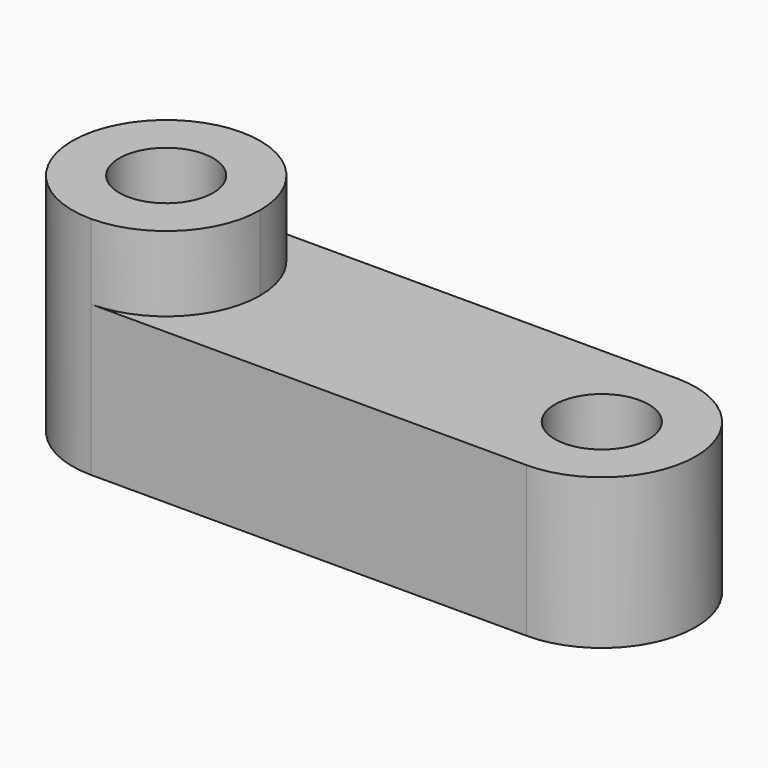
from build123d import *

# Parameters (mm, degrees)
F0_R     = 15.875
F1_DEPTH = 50.8
F2_DEPTH = 76.2


with BuildPart() as f1:
    # F0 (on Top) → F1 (new body)
    with BuildSketch(Plane.XY):
        with BuildLine():
            Line((-11.237637, 36.40228), (-84.859044, 36.40228))
            ThreePointArc((-84.859044, 36.40228), (-62.408403, 27.10292), (-53.109044, 4.65228))
            ThreePointArc((-53.109044, 4.65228), (-62.408403, -17.79836), (-84.859044, -27.09772))
            Line((-84.859044, -27.09772), (-11.237637, -27.09772))
            Line((-11.237637, -27.09772), (62.38377, -27.09772))
            ThreePointArc((62.38377, -27.09772), (94.13377, 4.65228), (62.38377, 36.40228))
            Line((62.38377, 36.40228), (-11.237637, 36.40228))
        make_face()
        with Locations((62.38377, 4.65228)):
            Circle(F0_R, mode=Mode.SUBTRACT)
    extrude(amount=F1_DEPTH)

    # F0 (on Top) → F2 (join)
    with BuildSketch(Plane.XY):
        with BuildLine():
            ThreePointArc((-53.109044, 4.65228), (-62.408403, 27.10292), (-84.859044, 36.40228))
            ThreePointArc((-84.859044, 36.40228), (-116.609044, 4.65228), (-84.859044, -27.09772))
            ThreePointArc((-84.859044, -27.09772), (-62.408403, -17.79836), (-53.109044, 4.65228))
        make_face()
        with Locations((-84.859044, 4.65228)):
            Circle(F0_R, mode=Mode.SUBTRACT)
    extrude(amount=F2_DEPTH)


solid = f1.part
